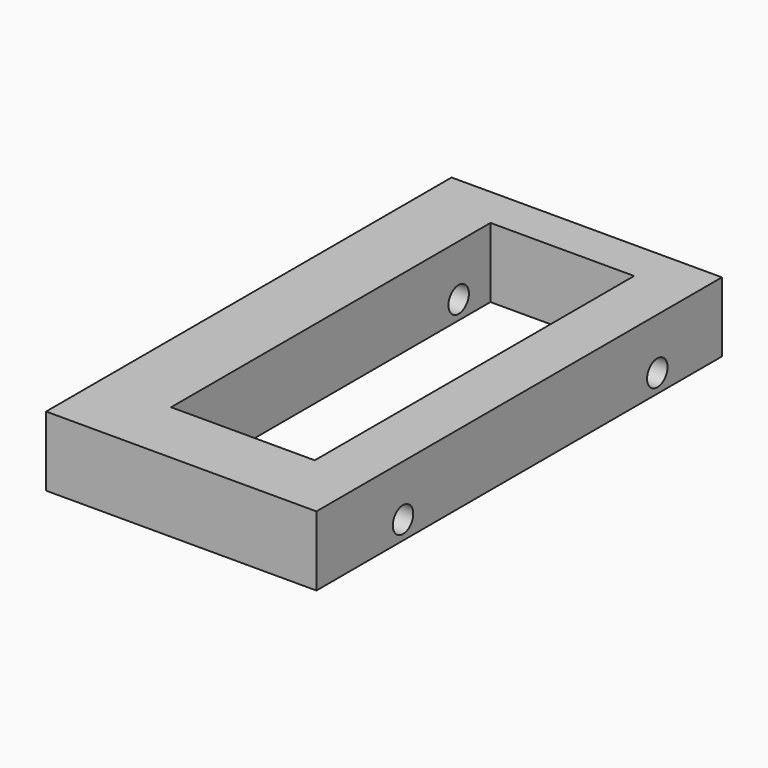
from build123d import *

# Parameters (mm, degrees)
F0_W     = 58.18182
F0_H     = 109.090917
F0_W_2   = 30.922429
F0_H_2   = 85.915956
F1_DEPTH = 15
F3_D     = 5.5


with BuildPart() as f1:
    # F0 (on Top) → F1 (new body)
    with BuildSketch(Plane.XY):
        with Locations((-9.090909, -9.431821)):
            Rectangle(F0_W, F0_H)
        with Locations((-7.289599, -6.676143)):
            Rectangle(F0_W_2, F0_H_2, mode=Mode.SUBTRACT)
    extrude(amount=F1_DEPTH)

    # F3 (through all)
    with Locations(Plane(origin=(-38.181819, 0, 0), x_dir=(0, -1, 0), z_dir=(-1, 0, 0))):
        with Locations((-27.727274, 3.977273), (40.68182, 3.977273)):
            Hole(F3_D / 2)


solid = f1.part
